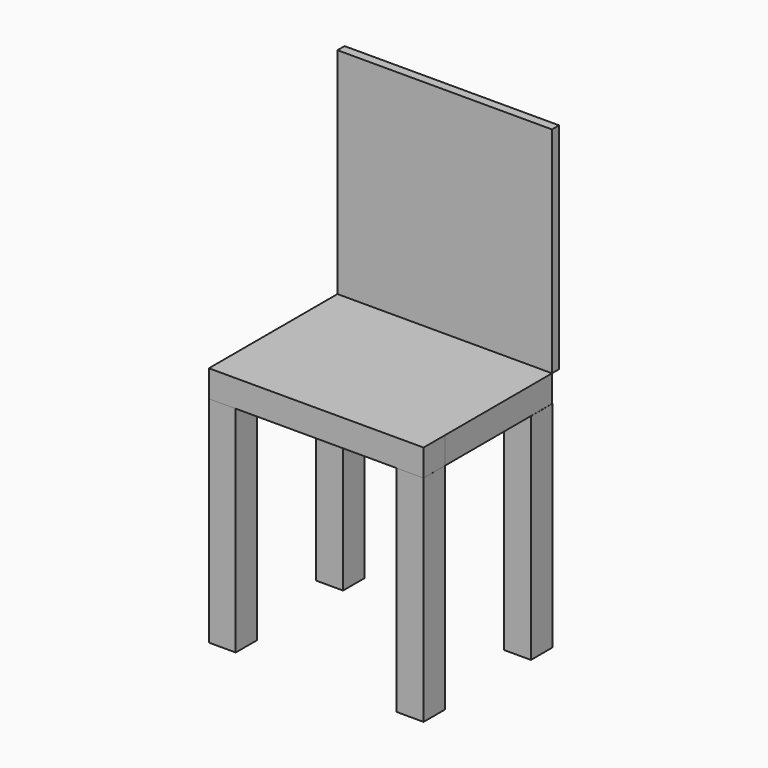
from build123d import *

# Parameters (mm, degrees)
F0_W     = 50.8
F0_H     = 50.8
F1_DEPTH = 406.4
F3_DEPTH = 50.8
F4_W     = 406.158894
F4_H     = 16.791105
F5_DEPTH = 406.4


with BuildPart() as f1:
    # F0 (on Top) → F1 (new body)
    with BuildSketch(Plane.XY):
        Polygon((0, 50.8), (0, 0), (50.8, 0), (50.8, 12.397157), (50.8, 50.8), align=None)
        with Locations((25.4, 279.4)):
            Rectangle(F0_W, F0_H)
        with Locations((381, 279.4)):
            Rectangle(F0_W, F0_H)
        Polygon((355.6, 12.397157), (355.6, 0), (406.4, 0), (406.4, 50.8), (355.6, 50.8), align=None)
    extrude(amount=F1_DEPTH)


with BuildPart() as f3:
    # F2 (on face) → F3 (new body)
    with BuildSketch(Plane.XY.offset(406.4)):
        Polygon((355.6, 50.8), (355.6, 0), (406.4, 0), (406.359737, 50.8), align=None)
        Polygon((0, 304.206938), (0, 0), (355.6, 0), (355.6, 50.8), (406.359737, 50.8), (406.158894, 304.206938), align=None)
    extrude(amount=F3_DEPTH)


with BuildPart() as f5:
    # F4 (on face) → F5 (new body)
    with BuildSketch(Plane.XY.offset(457.2)):
        with Locations((203.079447, 312.60249)):
            Rectangle(F4_W, F4_H)
    extrude(amount=F5_DEPTH)


solid = Compound([f1.part, f3.part, f5.part])
